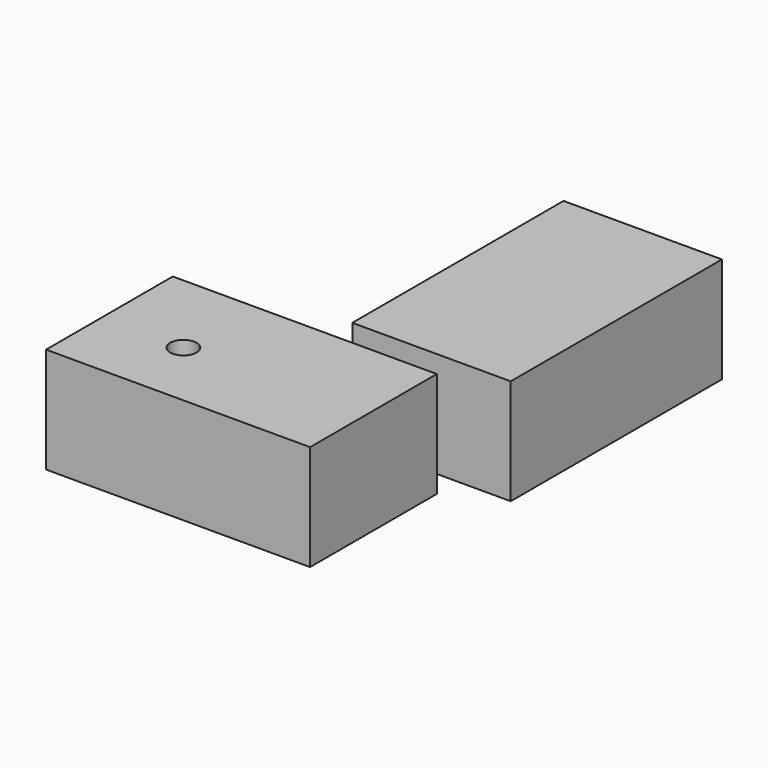
from build123d import *

# Parameters (mm, degrees)
F0_W     = 63.5
F0_H     = 38.1
F0_W_2   = 38.1
F0_H_2   = 63.5
F1_DEPTH = 25.4
F3_D     = 6.35


with BuildPart() as f1:
    # F0 (on Top) → F1 (new body)
    with BuildSketch(Plane.XY):
        with Locations((31.75, -19.05)):
            Rectangle(F0_W, F0_H)
        with Locations((57.15, 38.1)):
            Rectangle(F0_W_2, F0_H_2)
    extrude(amount=F1_DEPTH)

    # F3 (through all)
    with Locations(Plane.XY.offset(25.4)):
        with Locations((19.638494, -21.367334)):
            Hole(F3_D / 2)


solid = f1.part
